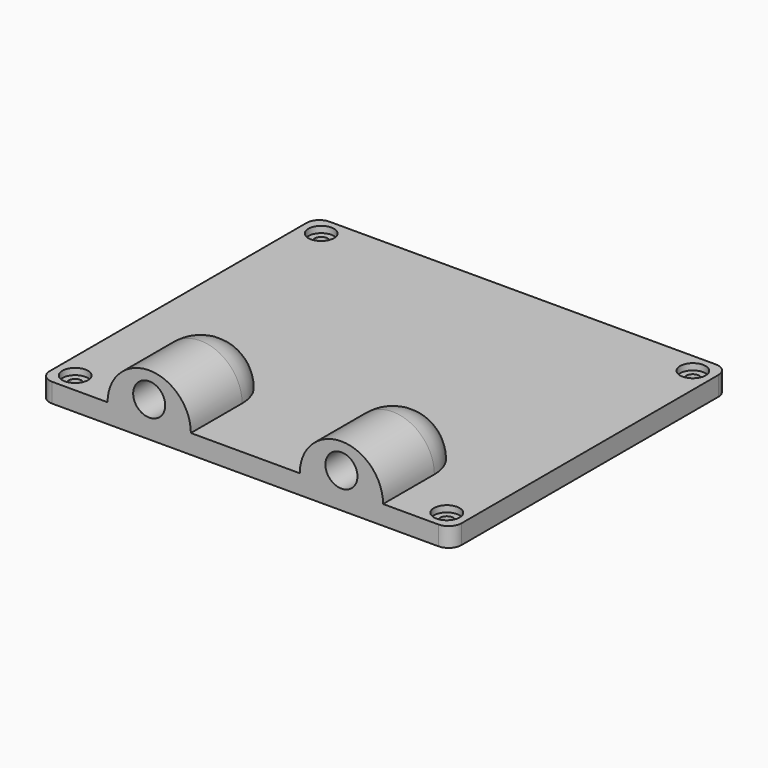
from build123d import *

# Parameters (mm, degrees)
CYLINDER012_R          = 2
CYLINDER012_DEPTH      = 5.5
CYLINDER013_R          = 2
CYLINDER013_DEPTH      = 5.5
BOX001_W               = 16
BOX001_H               = 10
BOX001_DEPTH           = 31
CYLINDER009_R          = 2.5
CYLINDER009_DEPTH      = 10
CYLINDER008_R          = 6.5
CYLINDER008_DEPTH      = 10
CUT001_PLACEMENT_ANGLE = 90
CYLINDER_R             = 2
CYLINDER_DEPTH         = 2
CYLINDER001_R          = 1
CYLINDER001_DEPTH      = 10
CYLINDER002_R          = 2
CYLINDER002_DEPTH      = 2
CYLINDER003_R          = 1
CYLINDER003_DEPTH      = 10
CYLINDER004_R          = 2
CYLINDER004_DEPTH      = 2
CYLINDER005_R          = 1
CYLINDER005_DEPTH      = 10
CYLINDER006_R          = 2
CYLINDER006_DEPTH      = 2
CYLINDER007_R          = 1
CYLINDER007_DEPTH      = 10
BOX_W                  = 64.27
BOX_H                  = 54.11
BOX_DEPTH              = 3
FILLET_R               = 2
BOX002_W               = 16
BOX002_H               = 10
BOX002_DEPTH           = 31
CYLINDER010_R          = 2.5
CYLINDER010_DEPTH      = 10
CYLINDER011_R          = 6.5
CYLINDER011_DEPTH      = 10
CUT002_PLACEMENT_ANGLE = 90


with BuildPart() as cylinder012:
    # Cylinder012 → Cylinder012 (new body)
    with BuildSketch(Plane(origin=(-15, -17, 0), x_dir=(1, 0, 0), z_dir=(0, 0, 1))):
        Circle(CYLINDER012_R)
    extrude(amount=CYLINDER012_DEPTH)


with BuildPart() as fusion016:
    # Sphere002 → Sphere002 (revolve)
    with BuildSketch(Plane(origin=(-15, -17, 5.5), x_dir=(1, 0, 0), z_dir=(0, -1, 0))):
        with BuildLine():
            ThreePointArc((0, -2), (2, 0), (0, 2))
            Line((0, 2), (0, -2))
        make_face()
    revolve(axis=Axis((-15, -17, 5.5), (0, 0, 1)))

    # Fusion016: union Cylinder012
    add(cylinder012.part)


with BuildPart() as cylinder013:
    # Cylinder013 → Cylinder013 (new body)
    with BuildSketch(Plane(origin=(-15, -17, 0), x_dir=(1, 0, 0), z_dir=(0, 0, 1))):
        Circle(CYLINDER013_R)
    extrude(amount=CYLINDER013_DEPTH)


with BuildPart() as fusion018:
    # Sphere003 → Sphere003 (revolve)
    with BuildSketch(Plane(origin=(-15, -17, 5.5), x_dir=(1, 0, 0), z_dir=(0, -1, 0))):
        with BuildLine():
            ThreePointArc((0, -2), (2, 0), (0, 2))
            Line((0, 2), (0, -2))
        make_face()
    revolve(axis=Axis((-15, -17, 5.5), (0, 0, 1)))

    # Fusion017: union Cylinder013
    add(cylinder013.part)


with BuildPart() as fusion018_1:
    # Fusion017 placement: moved
    add(fusion018.part.moved(Location((30, 0, 0))))

    # Fusion018: union Fusion016
    add(fusion016.part)


with BuildPart() as cube001:
    # Box001 → Box001 (new body)
    with BuildSketch(Plane(origin=(-8, 0, 0), x_dir=(1, 0, 0), z_dir=(0, 0, 1))):
        with Locations((8, 5)):
            Rectangle(BOX001_W, BOX001_H)
    extrude(amount=BOX001_DEPTH)


with BuildPart() as fusion011:
    # Cylinder009 → Cylinder009 (new body)
    with BuildSketch(Plane(origin=(0, -2.5, 0), x_dir=(1, 0, 0), z_dir=(0, 0, 1))):
        Circle(CYLINDER009_R)
    extrude(amount=CYLINDER009_DEPTH)

    # Fusion011: union Cube001
    add(cube001.part)


with BuildPart() as cylinder008:
    # Cylinder008 → Cylinder008 (new body)
    with BuildSketch(Plane.XY):
        Circle(CYLINDER008_R)
    extrude(amount=CYLINDER008_DEPTH)


with BuildPart() as hump:
    # Sphere → Sphere (revolve)
    with BuildSketch(Plane(origin=(0, 0, 10), x_dir=(1, 0, 0), z_dir=(0, -1, 0))):
        with BuildLine():
            ThreePointArc((0, -6.5), (6.5, 0), (0, 6.5))
            Line((0, 6.5), (0, -6.5))
        make_face()
    revolve(axis=Axis((0, 0, 10), (0, 0, 1)))

    # Fusion010: union Cylinder008
    add(cylinder008.part)

    # Cut001: cut Fusion011
    add(fusion011.part, mode=Mode.SUBTRACT)


with BuildPart() as hump_1:
    # Cut001 placement: moved
    add(hump.part.moved(Location((-15, -27.055, 3))).rotate(Axis((-15, -27.055, 3), (-1, 0, 0)), CUT001_PLACEMENT_ANGLE))


with BuildPart() as cylinder:
    # Cylinder → Cylinder (new body)
    with BuildSketch(Plane.XY.offset(2)):
        Circle(CYLINDER_R)
    extrude(amount=CYLINDER_DEPTH)


with BuildPart() as screwhole:
    # Cylinder001 → Cylinder001 (new body)
    with BuildSketch(Plane.XY):
        Circle(CYLINDER001_R)
    extrude(amount=CYLINDER001_DEPTH)

    # Fusion: union Cylinder
    add(cylinder.part)


with BuildPart() as screwhole_1:
    # Fusion placement: moved
    add(screwhole.part.moved(Location((29, 24, 0))))


with BuildPart() as cylinder002:
    # Cylinder002 → Cylinder002 (new body)
    with BuildSketch(Plane.XY.offset(2)):
        Circle(CYLINDER002_R)
    extrude(amount=CYLINDER002_DEPTH)


with BuildPart() as screwhole001:
    # Cylinder003 → Cylinder003 (new body)
    with BuildSketch(Plane.XY):
        Circle(CYLINDER003_R)
    extrude(amount=CYLINDER003_DEPTH)

    # Fusion006: union Cylinder002
    add(cylinder002.part)


with BuildPart() as screwhole001_1:
    # Fusion006 placement: moved
    add(screwhole001.part.moved(Location((-29, 24, 0))))


with BuildPart() as cylinder004:
    # Cylinder004 → Cylinder004 (new body)
    with BuildSketch(Plane.XY.offset(2)):
        Circle(CYLINDER004_R)
    extrude(amount=CYLINDER004_DEPTH)


with BuildPart() as screwhole002:
    # Cylinder005 → Cylinder005 (new body)
    with BuildSketch(Plane.XY):
        Circle(CYLINDER005_R)
    extrude(amount=CYLINDER005_DEPTH)

    # Fusion007: union Cylinder004
    add(cylinder004.part)


with BuildPart() as screwhole002_1:
    # Fusion007 placement: moved
    add(screwhole002.part.moved(Location((29, -24, 0))))


with BuildPart() as cylinder006:
    # Cylinder006 → Cylinder006 (new body)
    with BuildSketch(Plane.XY.offset(2)):
        Circle(CYLINDER006_R)
    extrude(amount=CYLINDER006_DEPTH)


with BuildPart() as screwholes:
    # Cylinder007 → Cylinder007 (new body)
    with BuildSketch(Plane.XY):
        Circle(CYLINDER007_R)
    extrude(amount=CYLINDER007_DEPTH)

    # Fusion008: union Cylinder006
    add(cylinder006.part)


with BuildPart() as screwholes_1:
    # Fusion008 placement: moved
    add(screwholes.part.moved(Location((-29, -24, 0))))

    # Fusion009: union screwHole, screwHole001, screwHole002
    add(screwhole_1.part)
    add(screwhole001_1.part)
    add(screwhole002_1.part)


with BuildPart() as cut:
    # Box → Box (new body)
    with BuildSketch(Plane(origin=(-32.135, -27.055, 0), x_dir=(1, 0, 0), z_dir=(0, 0, 1))):
        with Locations((32.135, 27.055)):
            Rectangle(BOX_W, BOX_H)
    extrude(amount=BOX_DEPTH)

    # Fillet
    fillet_edges = [cut.edges().sort_by_distance(p)[0] for p in [
        (-32.135, -27.055, 1.5),
        (-32.135, 27.055, 1.5),
        (32.135, -27.055, 1.5),
        (32.135, 27.055, 1.5),
    ]]
    fillet(fillet_edges, radius=FILLET_R)

    # Cut: cut ScrewHoles
    add(screwholes_1.part, mode=Mode.SUBTRACT)


with BuildPart() as cube002:
    # Box002 → Box002 (new body)
    with BuildSketch(Plane(origin=(-8, 0, 0), x_dir=(1, 0, 0), z_dir=(0, 0, 1))):
        with Locations((8, 5)):
            Rectangle(BOX002_W, BOX002_H)
    extrude(amount=BOX002_DEPTH)


with BuildPart() as fusion012:
    # Cylinder010 → Cylinder010 (new body)
    with BuildSketch(Plane(origin=(0, -2.5, 0), x_dir=(1, 0, 0), z_dir=(0, 0, 1))):
        Circle(CYLINDER010_R)
    extrude(amount=CYLINDER010_DEPTH)

    # Fusion012: union Cube002
    add(cube002.part)


with BuildPart() as cylinder011:
    # Cylinder011 → Cylinder011 (new body)
    with BuildSketch(Plane.XY):
        Circle(CYLINDER011_R)
    extrude(amount=CYLINDER011_DEPTH)


with BuildPart() as displayback:
    # Sphere001 → Sphere001 (revolve)
    with BuildSketch(Plane(origin=(0, 0, 10), x_dir=(1, 0, 0), z_dir=(0, -1, 0))):
        with BuildLine():
            ThreePointArc((0, -6.5), (6.5, 0), (0, 6.5))
            Line((0, 6.5), (0, -6.5))
        make_face()
    revolve(axis=Axis((0, 0, 10), (0, 0, 1)))

    # Fusion013: union Cylinder011
    add(cylinder011.part)

    # Cut002: cut Fusion012
    add(fusion012.part, mode=Mode.SUBTRACT)


with BuildPart() as displayback_1:
    # Cut002 placement: moved
    add(displayback.part.moved(Location((15, -27.055, 3))).rotate(Axis((15, -27.055, 3), (-1, 0, 0)), CUT002_PLACEMENT_ANGLE))

    # Fusion015: union Hump, Cut
    add(hump_1.part)
    add(cut.part)

    # Cut003: cut Fusion018
    add(fusion018_1.part, mode=Mode.SUBTRACT)


solid = displayback_1.part
